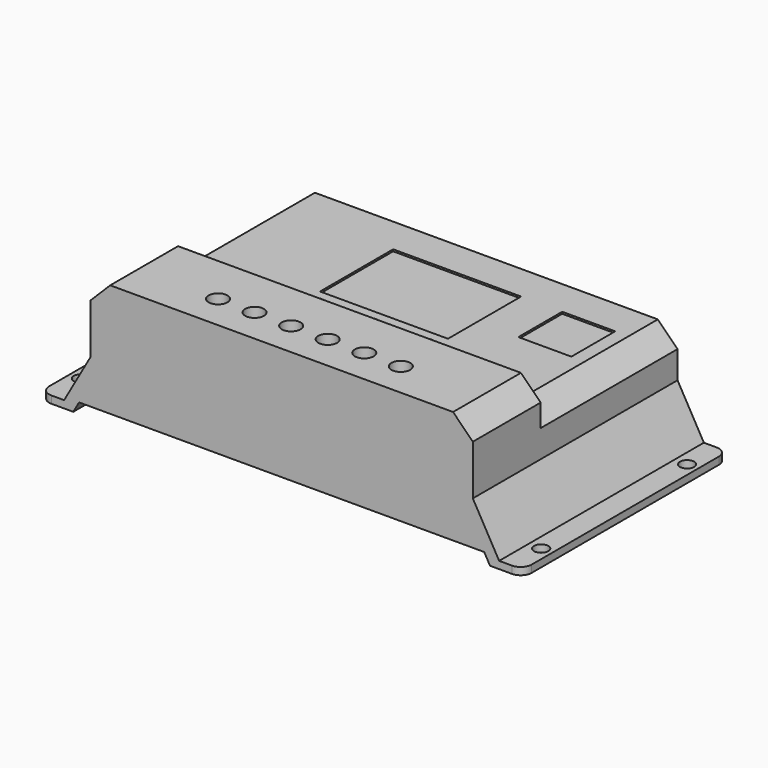
from build123d import *

# Parameters (mm, degrees)
F0_W      = 132
F0_H      = 70
F1_DEPTH  = 2
F3_DEPTH  = 35
F4_DEPTH  = 35
F6_DEPTH  = 23.2
F7_R      = 1.95
F8_DEPTH  = 25
F9_R      = 3
F10_R     = 2.575
F11_DEPTH = 5.2
F13_DEPTH = 70.001
F14_W     = 35
F14_H     = 25
F14_R     = 3.5
F14_W_2   = 14.5
F14_H_2   = 15
F15_DEPTH = 0.5


with BuildPart() as f1:
    # F0 (on Top) → F1 (new body)
    with BuildSketch(Plane.XY):
        Rectangle(F0_W, F0_H)
    extrude(amount=F1_DEPTH)

    # F2 (on Front) → F3 (join, through all)
    with BuildSketch(Plane.XZ):
        Polygon((-52.3, 14.7), (-59.5, 2), (59.5, 2), (52.3, 14.7), (52.3, 22.2), (46.9, 27.6), (-46.9, 27.6), (-52.3, 22.2), align=None)
    extrude(amount=F3_DEPTH)

    # F2 (on Front) → F4 (join, through all)
    with BuildSketch(Plane.XZ):
        Polygon((-52.3, 14.7), (-59.5, 2), (59.5, 2), (52.3, 14.7), (52.3, 22.2), (46.9, 27.6), (-46.9, 27.6), (-52.3, 22.2), align=None)
    extrude(amount=-F4_DEPTH)

    # F5 (on face) → F6 (join)
    with BuildSketch(Plane.XZ.offset(35)):
        Polygon((-52.3, 28.35), (-52.3, 22.2), (-46.9, 27.6), (46.9, 27.6), (52.3, 22.2), (52.3, 28.35), (46.9, 33.75), (-46.9, 33.75), align=None)
    extrude(amount=-F6_DEPTH)

    # F7 (on face) → F8 (cut)
    with BuildSketch(Plane(origin=(0, 0, 0), x_dir=(1, 0, 0), z_dir=(0, 0, -1))):
        with Locations((62.95, -24.95)):
            Circle(F7_R)
        with Locations((62.95, 24.95)):
            Circle(F7_R)
        with Locations((-62.95, 24.95)):
            Circle(F7_R)
        with Locations((-62.95, -24.95)):
            Circle(F7_R)
    extrude(amount=-F8_DEPTH, mode=Mode.SUBTRACT)

    # F9
    f9_edges = [f1.edges().sort_by_distance(p)[0] for p in [
        (66, -35, 1),
        (66, 35, 1),
        (-66, -35, 1),
        (-66, 35, 1),
    ]]
    fillet(f9_edges, radius=F9_R)

    # F10 (on face) → F11 (cut)
    with BuildSketch(Plane.XY.offset(33.75)):
        with Locations((-25, -25.5)):
            Circle(F10_R)
        with Locations((-15, -25.5)):
            Circle(F10_R)
        with Locations((-5, -25.5)):
            Circle(F10_R)
        with Locations((5, -25.5)):
            Circle(F10_R)
        with Locations((15, -25.5)):
            Circle(F10_R)
        with Locations((25, -25.5)):
            Circle(F10_R)
    extrude(amount=-F11_DEPTH, mode=Mode.SUBTRACT)

    # F12 (on face) → F13 (cut, through all)
    with BuildSketch(Plane(origin=(0, 35, 0), x_dir=(-1, 0, 0), z_dir=(0, 1, 0))):
        Polygon((-57, 0), (57, 0), (55.412598, 2.8), (-55.412598, 2.8), align=None)
    extrude(amount=-F13_DEPTH, mode=Mode.SUBTRACT)

    # F14 (on face) → F15 (cut)
    with BuildSketch(Plane.XY.offset(27.6)):
        with Locations((0, 12.5)):
            Rectangle(F14_W, F14_H)
        with Locations((0, -6)):
            Circle(F14_R)
        with Locations((-15, -6)):
            Circle(F14_R)
        with Locations((15, -6)):
            Circle(F14_R)
        with Locations((36, 17.5)):
            Rectangle(F14_W_2, F14_H_2)
    extrude(amount=-F15_DEPTH, mode=Mode.SUBTRACT)


solid = f1.part
